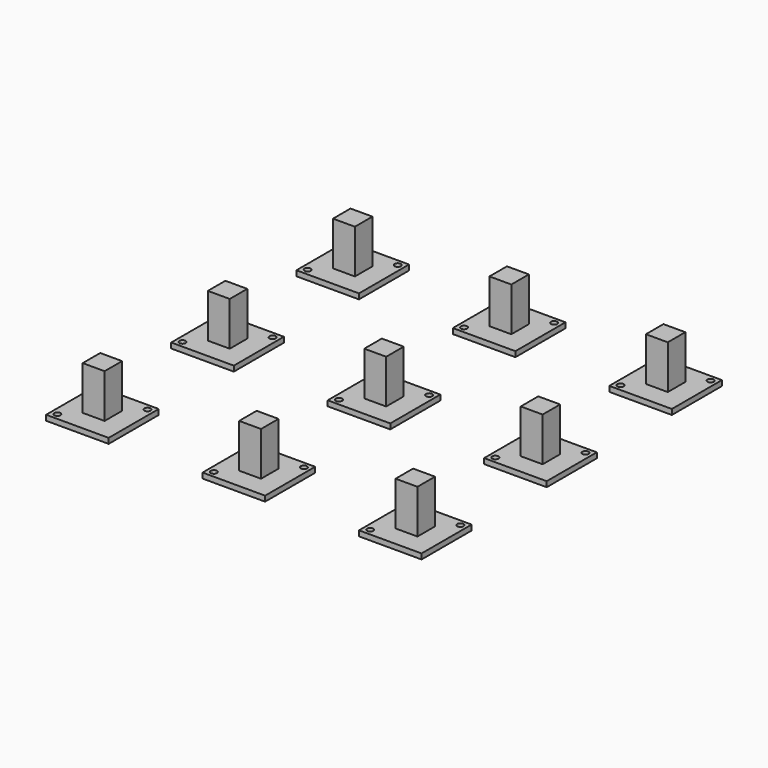
from build123d import *

# Parameters (mm, degrees)
CYLINDER_R        = 1
CYLINDER_DEPTH    = 10
CYLINDER001_R     = 1
CYLINDER001_DEPTH = 10
BOX001_W          = 20
BOX001_H          = 20
BOX001_DEPTH      = 1.7
BOX_W             = 7
BOX_H             = 7
BOX_DEPTH         = 14
ARRAY_X_COUNT     = 3
ARRAY_X_PITCH     = 50
ARRAY_Y_COUNT     = 3
ARRAY_Y_PITCH     = 50


with BuildPart() as cylinder:
    # Cylinder → Cylinder (new body)
    with BuildSketch(Plane(origin=(18, 18, 0), x_dir=(1, 0, 0), z_dir=(0, 0, 1))):
        Circle(CYLINDER_R)
    extrude(amount=CYLINDER_DEPTH)


with BuildPart() as fusion001:
    # Cylinder001 → Cylinder001 (new body)
    with BuildSketch(Plane(origin=(2, 2, 0), x_dir=(1, 0, 0), z_dir=(0, 0, 1))):
        Circle(CYLINDER001_R)
    extrude(amount=CYLINDER001_DEPTH)

    # Fusion001: union Cylinder
    add(cylinder.part)


with BuildPart() as cube001:
    # Box001 → Box001 (new body)
    with BuildSketch(Plane.XY.offset(3.3)):
        with Locations((10, 10)):
            Rectangle(BOX001_W, BOX001_H)
    extrude(amount=BOX001_DEPTH)


with BuildPart() as array:
    # Box → Box (new body)
    with BuildSketch(Plane(origin=(6.5, 6.5, 5), x_dir=(1, 0, 0), z_dir=(0, 0, 1))):
        with Locations((3.5, 3.5)):
            Rectangle(BOX_W, BOX_H)
    extrude(amount=BOX_DEPTH)

    # Fusion: union Cube001
    add(cube001.part)

    # Cut001: cut Fusion001
    add(fusion001.part, mode=Mode.SUBTRACT)

    # Array X: Array ×3


with BuildPart() as array_1:
    add(array.part)
    with Locations(*[(i * ARRAY_X_PITCH, 0, 0) for i in range(1, ARRAY_X_COUNT)]):
        add(array.part)

    # Array Y: Array ×3


with BuildPart() as array_2:
    add(array_1.part)
    with Locations(*[(0, i * ARRAY_Y_PITCH, 0) for i in range(1, ARRAY_Y_COUNT)]):
        add(array_1.part)


solid = array_2.part
